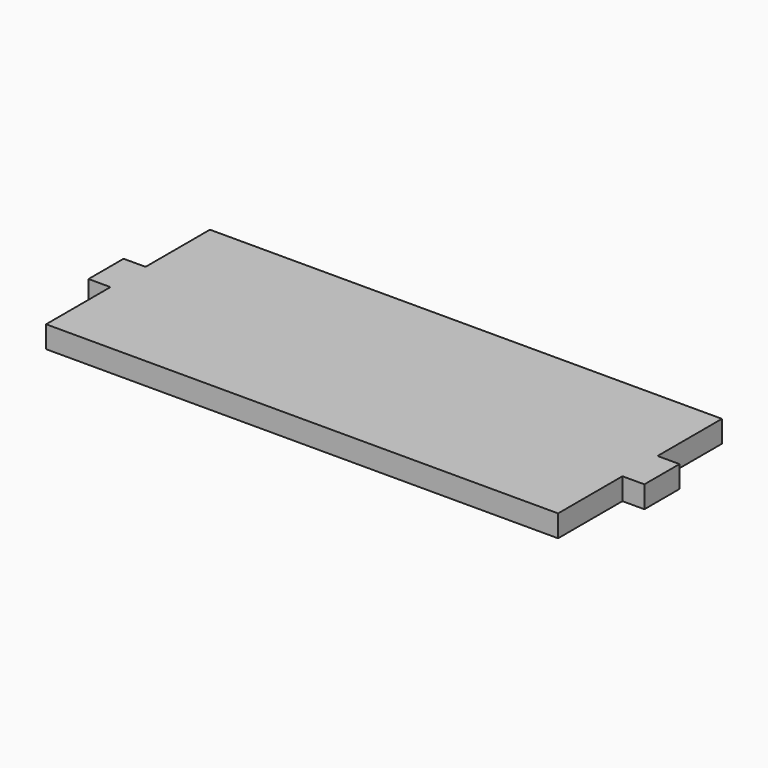
from build123d import *

# Parameters (mm, degrees)
F0_W     = 70
F0_H     = 28
F1_DEPTH = 3
F2_W     = 3
F2_H     = 6
F3_DEPTH = 3


with BuildPart() as f1:
    # F0 (on Top) → F1 (new body)
    with BuildSketch(Plane.XY):
        Rectangle(F0_W, F0_H)
    extrude(amount=F1_DEPTH)

    # F2 (on face) → F3 (join)
    with BuildSketch(Plane.XY.offset(3)):
        with Locations((-36.5, 0)):
            Rectangle(F2_W, F2_H)
        with Locations((36.5, 0)):
            Rectangle(F2_W, F2_H)
    extrude(amount=-F3_DEPTH)


solid = f1.part
